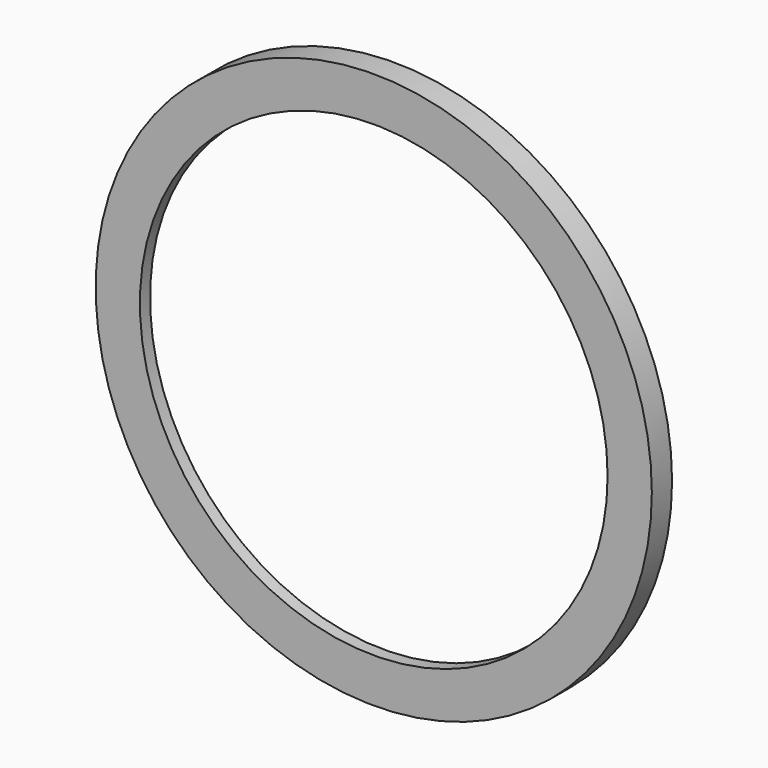
from build123d import *


with BuildPart() as part:
    # Sketch → Revolution (revolve)
    with BuildSketch(Plane.XY):
        Polygon((185, 0.440605), (220, 0.440605), (220, 20.440605), (200, 20.440605), (200, 10.440605), (185, 10.440605), align=None)
    revolve(axis=Axis((0, 0, 0), (0, 1, 0)))


solid = part.part
